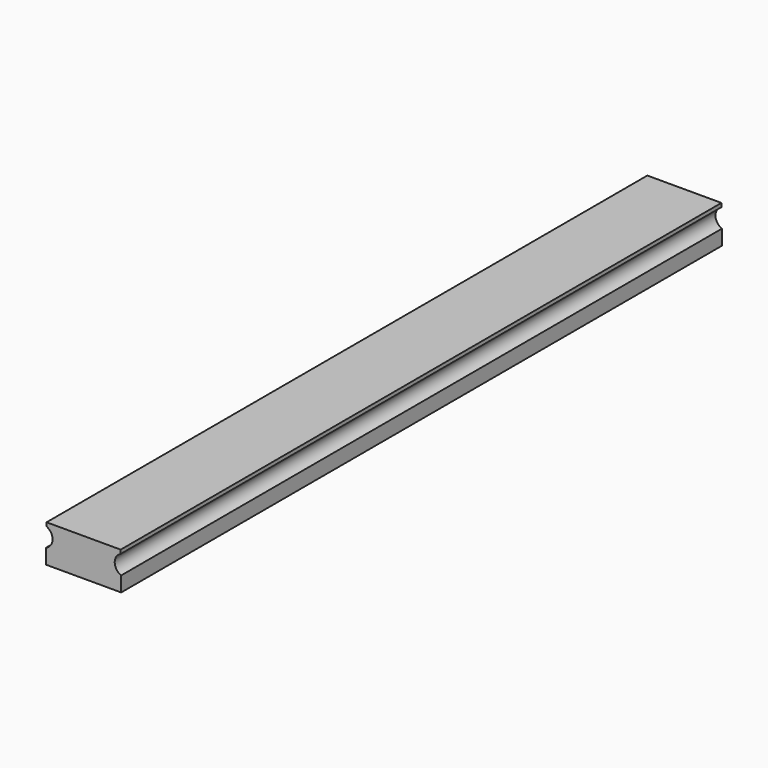
from build123d import *

# Parameters (mm, degrees)
F2_DEPTH = 200


with BuildPart() as f2:
    # F0 (on Front) → F2 (new body)
    with BuildSketch(Plane.XZ):
        with BuildLine():
            Line((-10, 0), (0, 0))
            Line((0, 0), (10, 0))
            Line((10, 0), (10, 4))
            ThreePointArc((10, 4), (8.2820023216, 6.4560436706), (9.8669164293, 9))
            Line((9.8669164293, 9), (9.8669164293, 10))
            Line((9.8669164293, 10), (0, 10))
            Line((0, 10), (-9.8669164293, 10))
            Line((-9.8669164293, 10), (-9.8669164293, 9))
            ThreePointArc((-9.8669164293, 9), (-8.2820023216, 6.4560436706), (-10, 4))
            Line((-10, 4), (-10, 0))
        make_face()
    extrude(amount=F2_DEPTH)


solid = f2.part
